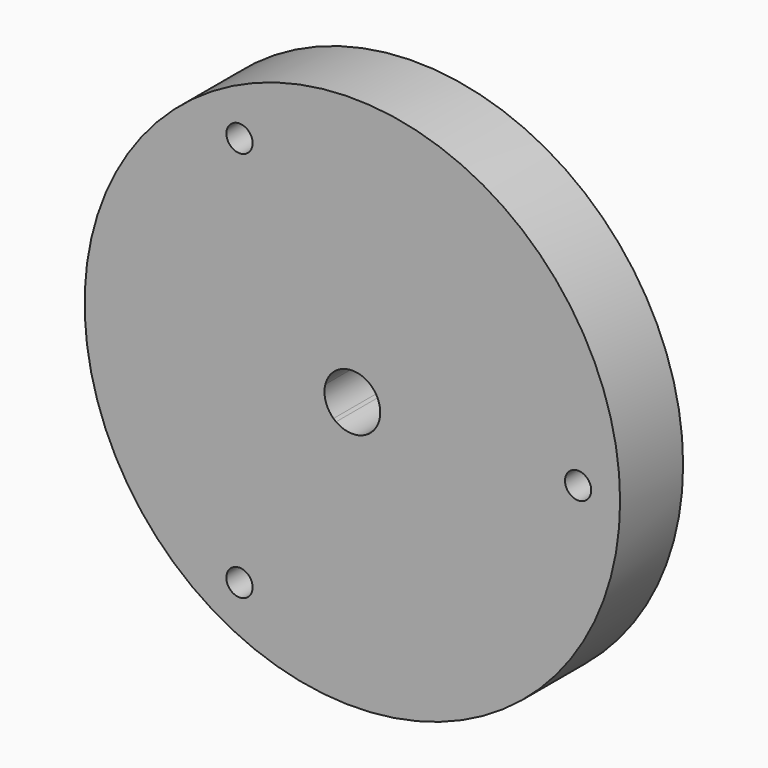
from build123d import *

# Parameters (mm, degrees)
F0_R          = 51
F0_R_2        = 2.5
F1_DEPTH      = 8
F1_DEPTH_BACK = 7
F2_R          = 57.85
F2_R_2        = 55.35
F3_DEPTH      = 3


with BuildPart() as f1:
    # F0 (on Front) → F1 (new body, two sides)
    with BuildSketch(Plane.XZ) as f1_sk:
        Circle(F0_R)
        with Locations((-21.5, -37.239092)):
            Circle(F0_R_2, mode=Mode.SUBTRACT)
        with Locations((-21.5, 37.239092)):
            Circle(F0_R_2, mode=Mode.SUBTRACT)
        with BuildLine():
            ThreePointArc((2.041061, 4.902058), (3.356125, 4.114915), (4.391594, 2.984962))
            ThreePointArc((4.391594, 2.984962), (5.075208, 1.561527), (5.31, 0))
            ThreePointArc((5.31, 0), (5.075312, -1.561189), (4.391992, -2.984377))
            ThreePointArc((4.391992, -2.984377), (3.469883, -4.019454), (2.311288, -4.780591))
            ThreePointArc((2.311288, -4.780591), (-0.462852, -5.289789), (-3.106405, -4.306547))
            ThreePointArc((-3.106405, -4.306547), (-3.356125, -4.114915), (-3.594051, -3.908823))
            ThreePointArc((-3.594051, -3.908823), (-5.088714, -1.516936), (-5.147666, 1.302933))
            ThreePointArc((-5.147666, 1.302933), (-4.635012, 2.5909), (-3.806465, 3.702286))
            ThreePointArc((-3.806465, 3.702286), (-1.067252, 5.201641), (2.041061, 4.902058))
        make_face(mode=Mode.SUBTRACT)
        with Locations((43, 0)):
            Circle(F0_R_2, mode=Mode.SUBTRACT)
    extrude(amount=F1_DEPTH)
    extrude(f1_sk.sketch, amount=-F1_DEPTH_BACK)

    # F2 (on face) → F3 (cut)
    with BuildSketch(Plane(origin=(0, 7, 0), x_dir=(-1, 0, 0), z_dir=(0, 1, 0))):
        Circle(F2_R)
        Circle(F2_R_2, mode=Mode.SUBTRACT)
    extrude(amount=-F3_DEPTH, mode=Mode.SUBTRACT)


solid = f1.part
